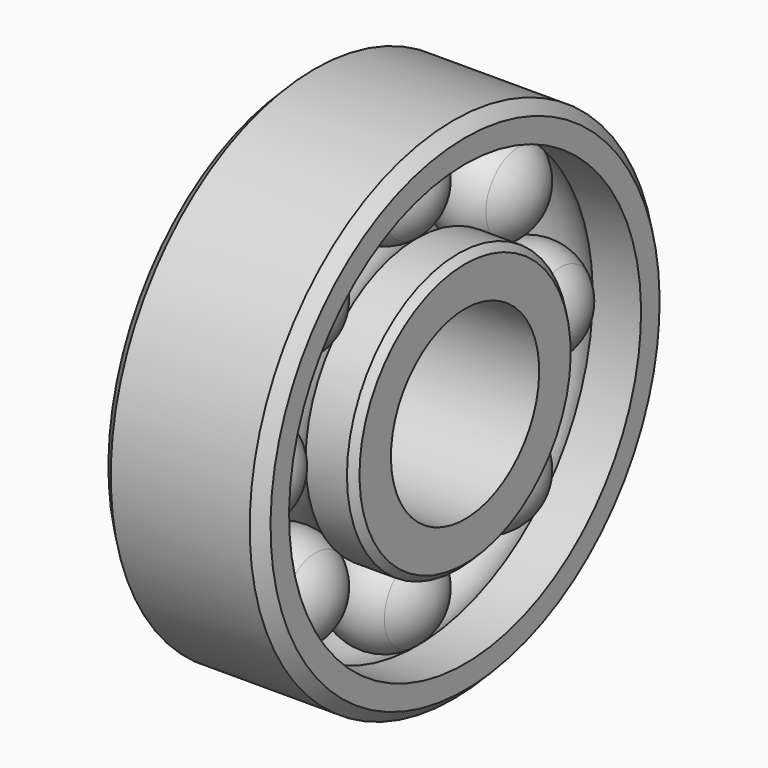
from build123d import *

# Parameters (mm, degrees)
F3_COUNT = 8
F4_SIZE  = 0.5
F5_SIZE  = 0.3
F6_ANGLE = 90


with BuildPart() as f1:
    # F0 (on Right) → F1 (revolve)
    with BuildSketch(Plane.YZ):
        with BuildLine():
            Line((3.5, 6), (1.4142135624, 6))
            ThreePointArc((1.4142135624, 6), (0, 5.5), (-1.4142135624, 6))
            Line((-1.4142135624, 6), (-3.5, 6))
            Line((-3.5, 6), (-3.5, 4))
            Line((-3.5, 4), (3.5, 4))
            Line((3.5, 4), (3.5, 6))
        make_face()
    revolve(axis=Axis((0, 0.4544019319, 0), (0, 1, 0)))

    # F5
    f5_edges = [f1.edges().sort_by_distance(p)[0] for p in [
        (0, -3.5, -6),
        (0, 3.5, -6),
    ]]
    chamfer(f5_edges, length=F5_SIZE)


with BuildPart() as f1b:
    # F0 (on Right) → F1, piece 2 (revolve)
    with BuildSketch(Plane.YZ):
        with BuildLine():
            ThreePointArc((-1.4142135624, 9.5), (0, 10), (1.4142135624, 9.5))
            Line((1.4142135624, 9.5), (3.5, 9.5))
            Line((3.5, 9.5), (3.5, 11))
            Line((3.5, 11), (-3.5, 11))
            Line((-3.5, 11), (-3.5, 9.5))
            Line((-3.5, 9.5), (-1.4142135624, 9.5))
        make_face()
    revolve(axis=Axis((0, 0.4544019319, 0), (0, 1, 0)))

    # F4
    f4_edges = [f1b.edges().sort_by_distance(p)[0] for p in [
        (0, -3.5, -11),
        (0, 3.5, -11),
    ]]
    chamfer(f4_edges, length=F4_SIZE)


with BuildPart() as f2:
    # F0 (on Right) → F2 (revolve)
    with BuildSketch(Plane.YZ):
        with BuildLine():
            Line((-2.25, 7.75), (2.25, 7.75))
            ThreePointArc((2.25, 7.75), (2.0303300859, 8.7196699141), (1.4142135624, 9.5))
            Line((1.4142135624, 9.5), (-1.4142135624, 9.5))
            ThreePointArc((-1.4142135624, 9.5), (-2.0303300859, 8.7196699141), (-2.25, 7.75))
        make_face()
        with BuildLine():
            Line((-1.4142135624, 9.5), (1.4142135624, 9.5))
            ThreePointArc((1.4142135624, 9.5), (0, 10), (-1.4142135624, 9.5))
        make_face()
    revolve(axis=Axis((0, 1.6359726433, 7.75), (0, 1, 0)))


with BuildPart() as f3_1:
    # F3: instance of F2
    add(f2.part.rotate(Axis((0, 0.4544019319, 0), (0, 1, 0)), 1 * 360 / F3_COUNT))


with BuildPart() as f3_2:
    # F3: instance of F2
    add(f2.part.rotate(Axis((0, 0.4544019319, 0), (0, 1, 0)), 2 * 360 / F3_COUNT))


with BuildPart() as f3_3:
    # F3: instance of F2
    add(f2.part.rotate(Axis((0, 0.4544019319, 0), (0, 1, 0)), 3 * 360 / F3_COUNT))


with BuildPart() as f3_4:
    # F3: instance of F2
    add(f2.part.rotate(Axis((0, 0.4544019319, 0), (0, 1, 0)), 4 * 360 / F3_COUNT))


with BuildPart() as f3_5:
    # F3: instance of F2
    add(f2.part.rotate(Axis((0, 0.4544019319, 0), (0, 1, 0)), 5 * 360 / F3_COUNT))


with BuildPart() as f3_6:
    # F3: instance of F2
    add(f2.part.rotate(Axis((0, 0.4544019319, 0), (0, 1, 0)), 6 * 360 / F3_COUNT))


with BuildPart() as f3_7:
    # F3: instance of F2
    add(f2.part.rotate(Axis((0, 0.4544019319, 0), (0, 1, 0)), 7 * 360 / F3_COUNT))


with BuildPart() as f3_3_1:
    # F6: moved
    add(f3_3.part.rotate(Axis((0, 0, 15.467598103), (0, 0, 1)), F6_ANGLE))


with BuildPart() as f1_1:
    # F6: moved
    add(f1.part.rotate(Axis((0, 0, 15.467598103), (0, 0, 1)), F6_ANGLE))


with BuildPart() as f1b_1:
    # F6: moved
    add(f1b.part.rotate(Axis((0, 0, 15.467598103), (0, 0, 1)), F6_ANGLE))


with BuildPart() as f3_5_1:
    # F6: moved
    add(f3_5.part.rotate(Axis((0, 0, 15.467598103), (0, 0, 1)), F6_ANGLE))


with BuildPart() as f3_2_1:
    # F6: moved
    add(f3_2.part.rotate(Axis((0, 0, 15.467598103), (0, 0, 1)), F6_ANGLE))


with BuildPart() as f3_4_1:
    # F6: moved
    add(f3_4.part.rotate(Axis((0, 0, 15.467598103), (0, 0, 1)), F6_ANGLE))


with BuildPart() as f3_6_1:
    # F6: moved
    add(f3_6.part.rotate(Axis((0, 0, 15.467598103), (0, 0, 1)), F6_ANGLE))


with BuildPart() as f3_1_1:
    # F6: moved
    add(f3_1.part.rotate(Axis((0, 0, 15.467598103), (0, 0, 1)), F6_ANGLE))


with BuildPart() as f3_7_1:
    # F6: moved
    add(f3_7.part.rotate(Axis((0, 0, 15.467598103), (0, 0, 1)), F6_ANGLE))


with BuildPart() as f2_1:
    # F6: moved
    add(f2.part.rotate(Axis((0, 0, 15.467598103), (0, 0, 1)), F6_ANGLE))


solid = Compound([f3_3_1.part, f1_1.part, f1b_1.part, f3_5_1.part, f3_2_1.part, f3_4_1.part, f3_6_1.part, f3_1_1.part, f3_7_1.part, f2_1.part])
